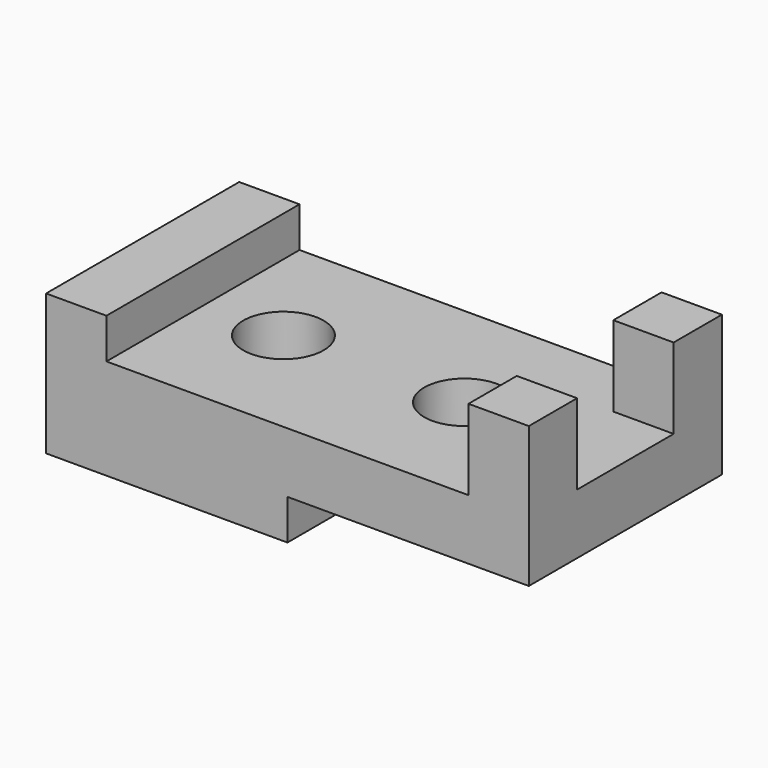
from build123d import *

# Parameters (mm, degrees)
F1_DEPTH = 60
F2_W     = 30
F2_H     = 20
F3_DEPTH = 25
F4_R     = 10
F5_DEPTH = 25.001


with BuildPart() as f1:
    # F0 (on Front) → F1 (new body)
    with BuildSketch(Plane.XZ):
        Polygon((0, 35), (0, 0), (60, 0), (60, 10), (120, 10), (120, 45), (105, 45), (105, 25), (15, 25), (15, 35), align=None)
    extrude(amount=-F1_DEPTH)

    # F2 (on face) → F3 (cut)
    with BuildSketch(Plane.YZ.offset(120)):
        with Locations((30, 35)):
            Rectangle(F2_W, F2_H)
    extrude(amount=-F3_DEPTH, mode=Mode.SUBTRACT)

    # F4 (on face) → F5 (cut, through all)
    with BuildSketch(Plane.XY.offset(25)):
        with Locations((35, 30)):
            Circle(F4_R)
        with Locations((80, 30)):
            Circle(F4_R)
    extrude(amount=-F5_DEPTH, mode=Mode.SUBTRACT)


solid = f1.part
